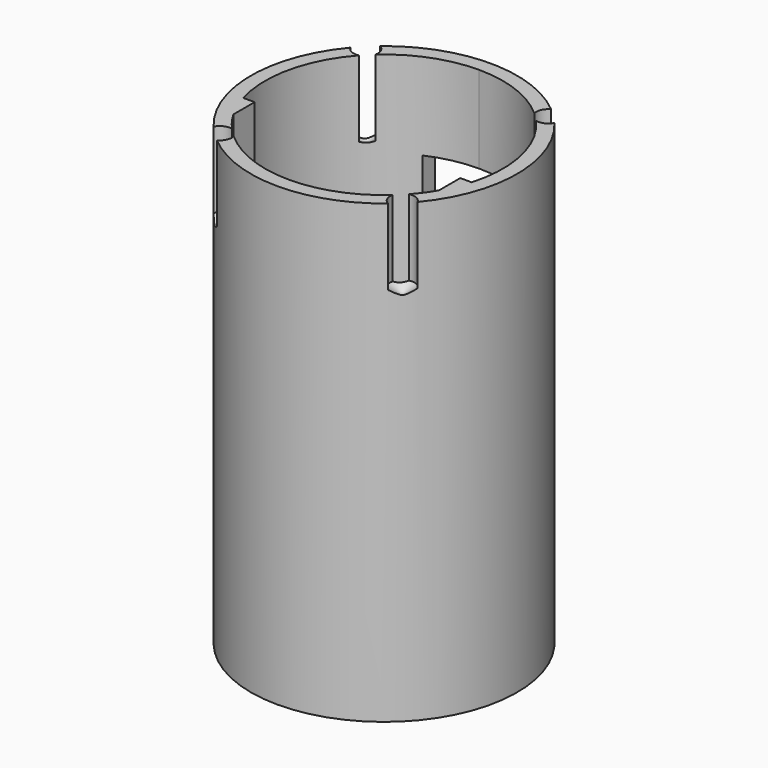
from build123d import *

# Parameters (mm, degrees)
F1_DEPTH = 60
F2_DEPTH = 60
F4_D     = 3.2
F4_DEPTH = 10
F4_TIP   = 0.9613769904
F5_W     = 6.35
F5_H     = 6.35
F6_DEPTH = 25


with BuildPart() as f1:
    # F0 (on Top) → F1 (new body)
    with BuildSketch(Plane.XY):
        with BuildLine():
            ThreePointArc((-15.0151466486, -4.363634278), (-12.5045454624, 9.3878791946), (0, 15.636365722))
            Line((0, 15.636365722), (0, 17.5))
            ThreePointArc((0, 17.5), (-17.5, 0), (0, -17.5))
            Line((0, -17.5), (0, -15.636365722))
            ThreePointArc((0, -15.636365722), (-7.7954240269, -13.5546042817), (-13.5151466486, -7.863634278))
            ThreePointArc((-13.5151466486, -7.863634278), (-14.3720878409, -6.1594662175), (-15.0151466486, -4.363634278))
        make_face()
        with BuildLine():
            Line((0, 17.5), (0, 15.636365722))
            ThreePointArc((0, 15.636365722), (12.5045454624, 9.3878791946), (15.0151466486, -4.363634278))
            ThreePointArc((15.0151466486, -4.363634278), (14.3720878409, -6.1594662175), (13.5151466486, -7.863634278))
            ThreePointArc((13.5151466486, -7.863634278), (7.7954240269, -13.5546042817), (0, -15.636365722))
            Line((0, -15.636365722), (0, -17.5))
            ThreePointArc((0, -17.5), (17.5, 0), (0, 17.5))
        make_face()
    extrude(amount=F1_DEPTH)

    # F0 (on Top) → F2 (join)
    with BuildSketch(Plane.XY):
        with BuildLine():
            Line((-13.5151466486, -4.363634278), (-15.0151466486, -4.363634278))
            ThreePointArc((-15.0151466486, -4.363634278), (-14.3720878409, -6.1594662175), (-13.5151466486, -7.863634278))
            Line((-13.5151466486, -7.863634278), (-13.5151466486, -4.363634278))
        make_face()
        with BuildLine():
            ThreePointArc((13.5151466486, -7.863634278), (14.3720878409, -6.1594662175), (15.0151466486, -4.363634278))
            Line((15.0151466486, -4.363634278), (13.5151466486, -4.363634278))
            Line((13.5151466486, -4.363634278), (13.5151466486, -7.863634278))
        make_face()
    extrude(amount=F2_DEPTH)

    # F4
    with Locations(Plane.XY.offset(60)):
        with Locations((12, 12), (-12, 12), (-12, -12), (12, -12)):
            Hole(F4_D / 2, depth=F4_DEPTH)
            with Locations((0, 0, -(F4_DEPTH + F4_TIP / 2))):  # 118° drill point
                Cone(0, F4_D / 2, F4_TIP, mode=Mode.SUBTRACT)

    # F5 (on Front) → F6 (cut)
    with BuildSketch(Plane.XZ):
        with Locations((-3.175, 20)):
            Rectangle(F5_W, F5_H)
        with Locations((3.175, 20)):
            Rectangle(F5_W, F5_H)
        with Locations((-3.175, 45.4)):
            Rectangle(F5_W, F5_H)
        with Locations((3.175, 45.4)):
            Rectangle(F5_W, F5_H)
        with Locations((-3.175, 32.7)):
            Rectangle(F5_W, F5_H)
        with Locations((3.175, 32.7)):
            Rectangle(F5_W, F5_H)
    extrude(amount=-F6_DEPTH, mode=Mode.SUBTRACT)


solid = f1.part
